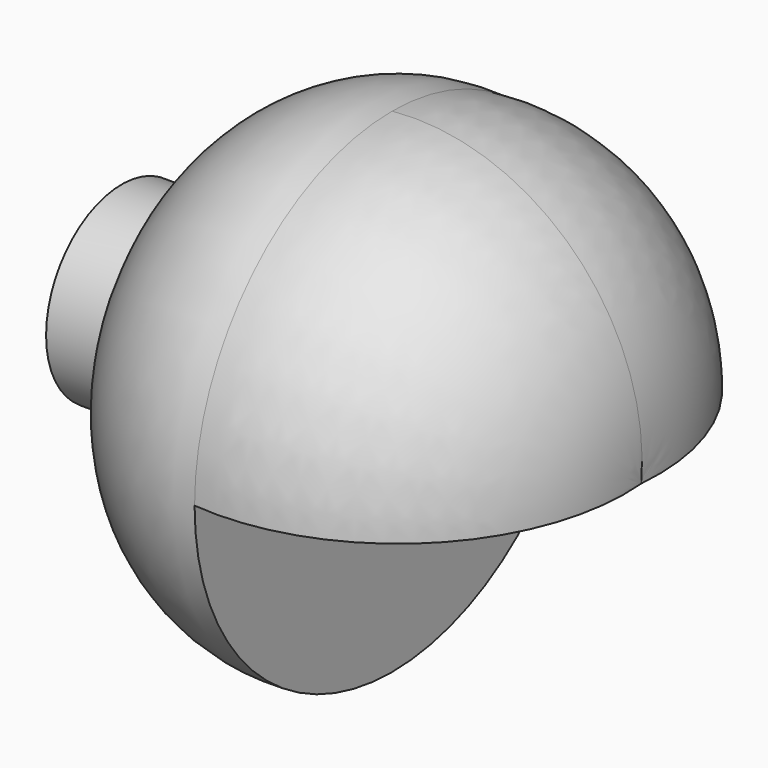
from build123d import *

# Parameters (mm, degrees)
F2_ANGLE  = 180
F1_FACE_R = 21.381984
F3_DEPTH  = 16.256
F4_R      = 13.290294
F5_DEPTH  = 115.57


with BuildPart() as f1:
    # F0 (on Front) → F1 (revolve)
    with BuildSketch(Plane.XZ):
        with BuildLine():
            Line((-44.931725, 21.381984), (-44.931725, 0))
            Line((-44.931725, 0), (0, 0))
            Line((0, 0), (0, 55.869054))
            ThreePointArc((0, 55.869054), (-28.937879, 47.057632), (-44.931725, 21.381984))
        make_face()
    revolve(axis=Axis((-22.465862, 0, 0), (1, 0, 0)))

    # F0 (on Front) → F2 (revolve, symmetric)
    with BuildSketch(Plane.XZ) as f2_sk:
        with BuildLine():
            Line((0, 55.869054), (0, 0))
            Line((0, 0), (56.361724, 0))
            ThreePointArc((56.361724, 0), (41.303803, 41.17319), (0, 55.869054))
        make_face()
    revolve(axis=Axis((28.180862, 0, 0), (1, 0, 0)), revolution_arc=F2_ANGLE / 2)
    revolve(f2_sk.sketch, axis=Axis((28.180862, 0, 0), (-1, 0, 0)), revolution_arc=F2_ANGLE / 2)

    # F1_face (on face) → F3 (join)
    with BuildSketch(Plane(origin=(-44.931725, 0, 0), x_dir=(0, -1, 0), z_dir=(-1, 0, 0))):
        Circle(F1_FACE_R)
    extrude(amount=F3_DEPTH)

    # F4 (on Right) → F5 (cut)
    with BuildSketch(Plane.YZ):
        Circle(F4_R)
    extrude(amount=-F5_DEPTH, mode=Mode.SUBTRACT)


solid = f1.part
